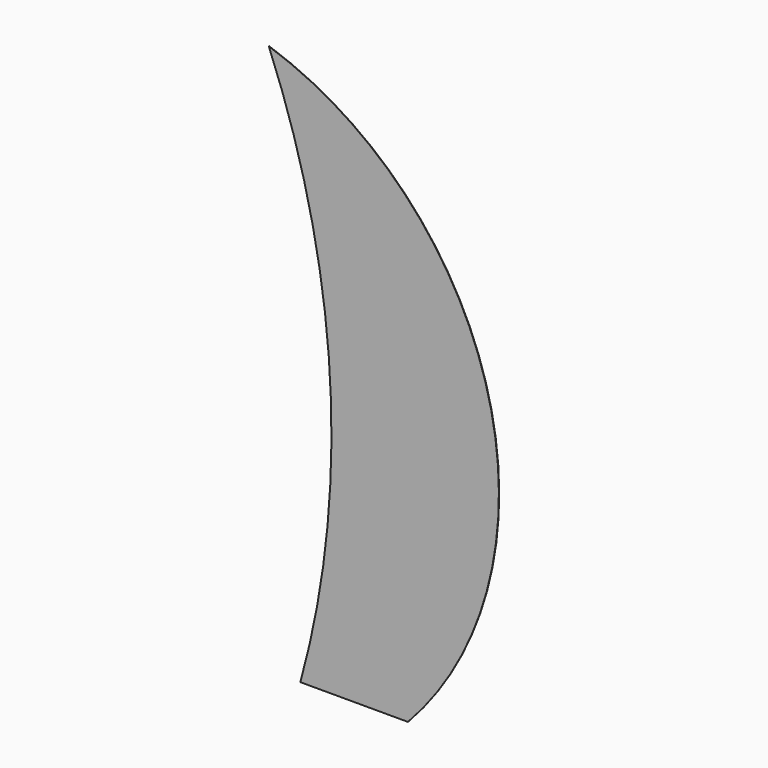
from build123d import *

# Parameters (mm, degrees)
F1_DEPTH = 2.6


with BuildPart() as f1:
    # F0 (on Front) → F1 (new body)
    with BuildSketch(Plane.XZ):
        with BuildLine():
            ThreePointArc((-811.982286, 1902.266454), (-390.90336, 31.354638), (-595.126302, -1875.451979))
            Line((-595.126302, -1875.451979), (-516.837, -1875.451979))
            Line((-516.837, -1875.451979), (39.50839, -1875.451979))
            Line((39.50839, -1875.451979), (144.48813, -1875.451979))
            ThreePointArc((144.48813, -1875.451979), (698.874674, 274.853974), (-811.982286, 1902.266454))
        make_face()
    extrude(amount=-F1_DEPTH)


solid = f1.part
